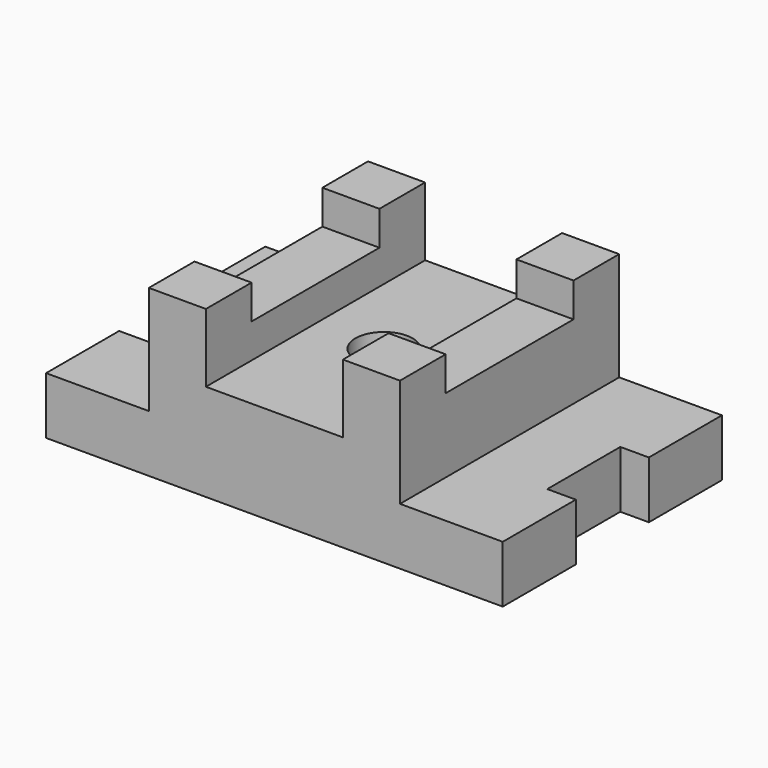
from build123d import *

# Parameters (mm, degrees)
F1_DEPTH = 31.75
F2_DEPTH = 92.075
F0_R     = 15.875
F3_DEPTH = 53.975
F4_DEPTH = 73.025
F5_SCALE = 0.5


with BuildPart() as f1:
    # F0 (on Top) → F1 (new body)
    with BuildSketch(Plane.XY):
        Polygon((69.8498128911, -44.4499999985), (69.85, -76.2), (127, -76.2), (127, -25.4), (111.125, -25.4), (111.1241018772, 25.4), (126.9991018772, 25.4), (126.9991018772, 76.2), (69.8491018772, 76.2), (69.8492889861, 44.45), align=None)
    extrude(amount=F1_DEPTH)

    # F0 (on Top) → F2, piece 2 (join)
    with BuildSketch(Plane.XY):
        Polygon((38.1, 76.2), (38.1, 44.4498128953), (69.8492889861, 44.45), (69.8491018772, 76.2), align=None)
        Polygon((38.1, -44.4501871063), (38.1, -76.2), (69.85, -76.2), (69.8498128911, -44.4499999985), align=None)
    extrude(amount=F2_DEPTH)



with BuildPart() as f1b:
    # F0 (on Top) → F1, piece 2 (new body)
    with BuildSketch(Plane.XY):
        Polygon((-111.125, -25.4), (-127, -25.4), (-127, -76.2), (-69.85, -76.2), (-69.8501871089, -44.45), (-69.8507110139, 44.45), (-69.8508981228, 76.2), (-127.0008981228, 76.2), (-127.0008981228, 25.4), (-111.125, 25.4), align=None)
    extrude(amount=F1_DEPTH)

    # F0 (on Top) → F2 (join)
    with BuildSketch(Plane.XY):
        Polygon((-69.8508981228, 76.2), (-69.8507110139, 44.45), (-38.1, 44.45), (-38.1, 76.2), align=None)
        Polygon((-69.8501871089, -44.45), (-69.85, -76.2), (-38.1, -76.2), (-38.1, -44.45), align=None)
        Polygon((-69.8501871089, -44.45), (-69.85, -76.2), (-38.1, -76.2), (-38.1, -44.45), align=None)
    extrude(amount=F2_DEPTH)


with BuildPart() as f1_1:
    add(f1.part)

    add(f1b.part)  # F3 merges F1b
    # F0 (on Top) → F3 (join)
    with BuildSketch(Plane.XY):
        Polygon((-38.1, -44.45), (-38.1, -76.2), (0, -76.2), (38.1, -76.2), (38.1, -44.4501871063), (38.1, 44.4498128953), (38.1, 76.2), (-38.1, 76.2), (-38.1, 44.45), align=None)
        Circle(F0_R, mode=Mode.SUBTRACT)
    extrude(amount=F3_DEPTH)

    # F0 (on Top) → F4 (join)
    with BuildSketch(Plane.XY):
        Polygon((38.1, 44.4498128953), (38.1, -44.4501871063), (69.8498128911, -44.4499999985), (69.8492889861, 44.45), align=None)
        Polygon((-69.8507110139, 44.45), (-69.8501871089, -44.45), (-38.1, -44.45), (-38.1, 44.45), align=None)
    extrude(amount=F4_DEPTH)


with BuildPart() as f1_2:
    # F5: moved
    add(f1_1.part.scale(F5_SCALE))


solid = f1_2.part
